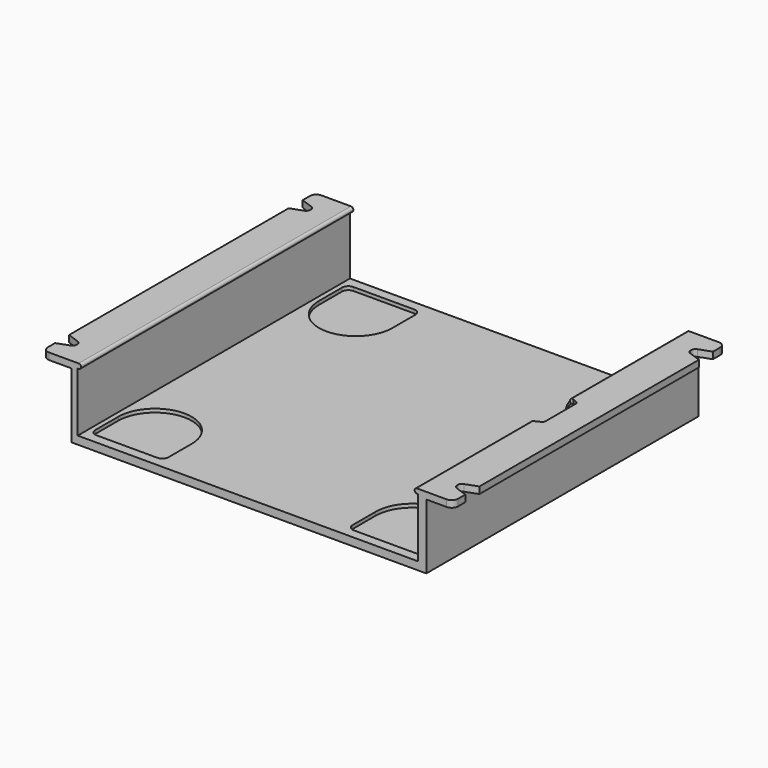
from build123d import *

# Parameters (mm, degrees)
PAD001_DEPTH         = 53.3
PAD002_DEPTH         = 53.3
POCKET_DEPTH         = 19
POCKET001_DEPTH      = 5
POCKET004_DEPTH      = 20.401
POCKET004_DEPTH_BACK = -2.101
FILLET_R             = 2
FILLET001_R          = 1


with BuildPart() as part:
    # Sketch001 → Pad001 (new body, symmetric)
    with BuildSketch(Plane.XZ):
        Polygon((64.25, 0), (55.9, 0), (55.9, -20.4), (-55.3, -20.4), (-55.3, 0), (-64.25, 0), (-64.25, 2.1), (-53.3, 2.1), (-53.3, -17.9), (53.3, -17.9), (53.3, 2.1), (64.25, 2.1), align=None)
    extrude(amount=PAD001_DEPTH, both=True)

    # Sketch002 → Pad002 (join, symmetric)
    with BuildSketch(Plane.XZ):
        with BuildLine():
            ThreePointArc((53, 2.1), (52.25, 1.35), (53, 0.6))
            Line((53.3, 0.6), (53, 0.6))
            Line((53.3, 2.1), (53.3, 0.6))
            Line((53.3, 2.1), (53, 2.1))
        make_face()
    pad002 = extrude(amount=PAD002_DEPTH, both=True)

    # Sketch003 → Pocket (cut)
    with BuildSketch(Plane.XY):
        with BuildLine():
            ThreePointArc((28.8, 39.3), (40.3, 27.8), (51.8, 39.3))
            Line((51.8, 39.3), (51.8, 48.3))
            ThreePointArc((51.8, 48.3), (51.214214, 49.714214), (49.8, 50.3))
            Line((30.8, 50.3), (49.8, 50.3))
            ThreePointArc((30.8, 50.3), (29.385786, 49.714214), (28.8, 48.3))
            Line((28.8, 39.3), (28.8, 48.3))
        make_face()
        with BuildLine():
            ThreePointArc((51.8, -39.3), (40.3, -27.8), (28.8, -39.3))
            Line((28.8, -39.3), (28.8, -48.3))
            ThreePointArc((28.8, -48.3), (29.385786, -49.714214), (30.8, -50.3))
            Line((30.8, -50.3), (49.8, -50.3))
            ThreePointArc((49.8, -50.3), (51.214214, -49.714214), (51.8, -48.3))
            Line((51.8, -39.3), (51.8, -48.3))
        make_face()
    pocket = extrude(amount=-POCKET_DEPTH, mode=Mode.SUBTRACT)

    # Mirrored: Pad002, Pocket across Sketch002 V_Axis
    add(pad002.mirror(Plane(origin=(0, 0, 0), x_dir=(0, -1, 0), z_dir=(1, 0, 0))))
    add(pocket.mirror(Plane(origin=(0, 0, 0), x_dir=(0, -1, 0), z_dir=(1, 0, 0))), mode=Mode.SUBTRACT)

    # Sketch004 → Pocket001 (cut)
    with BuildSketch(Plane.XY):
        with BuildLine():
            ThreePointArc((59.55, -45.8), (59.803187, -46.603007), (60.471172, -47.11557))
            Line((60.471172, -47.11557), (64.25, -48.490951))
            Line((64.25, -42.959049), (64.25, -48.490951))
            Line((60.471172, -44.33443), (64.25, -42.959049))
            ThreePointArc((60.471172, -44.33443), (59.803187, -44.846993), (59.55, -45.65))
            Line((59.55, -45.65), (59.55, -45.8))
        make_face()
        with BuildLine():
            ThreePointArc((60.471172, 47.11557), (59.803187, 46.603007), (59.55, 45.8))
            Line((59.55, 45.8), (59.55, 45.65))
            ThreePointArc((59.55, 45.65), (59.803187, 44.846993), (60.471172, 44.33443))
            Line((60.471172, 44.33443), (64.25, 42.959049))
            Line((64.25, 48.490951), (64.25, 42.959049))
            Line((60.471172, 47.11557), (64.25, 48.490951))
        make_face()
    pocket001 = extrude(amount=POCKET001_DEPTH, mode=Mode.SUBTRACT)

    # Mirrored001: Pocket001 across YZ
    add(pocket001.mirror(Plane.YZ), mode=Mode.SUBTRACT)

    # Sketch005 → Pocket004 (cut, two sides)
    with BuildSketch(Plane.XY) as pocket004_sk:
        Polygon((47.3, -7.5), (47.3, 7.5), (53.3, 7.5), (55.3, 6.5), (55.3, -6.5), (53.3, -7.5), align=None)
    extrude(amount=-POCKET004_DEPTH, mode=Mode.SUBTRACT)
    extrude(pocket004_sk.sketch, amount=-POCKET004_DEPTH_BACK, mode=Mode.SUBTRACT)

    # Fillet
    fillet_edges = [part.edges().sort_by_distance(p)[0] for p in [
        (64.25, -53.3, 1.05),
        (64.25, 53.3, 1.05),
        (-64.25, 53.3, 1.05),
        (-64.25, -53.3, 1.05),
    ]]
    fillet(fillet_edges, radius=FILLET_R)

    # Fillet001
    fillet001_edges = [part.edges().sort_by_distance(p)[0] for p in [
        (55.3, 6.5, -9.15),
        (47.3, 7.5, -19.15),
        (47.3, -7.5, -19.15),
        (55.3, -6.5, -9.15),
    ]]
    fillet(fillet001_edges, radius=FILLET001_R)


solid = part.part
